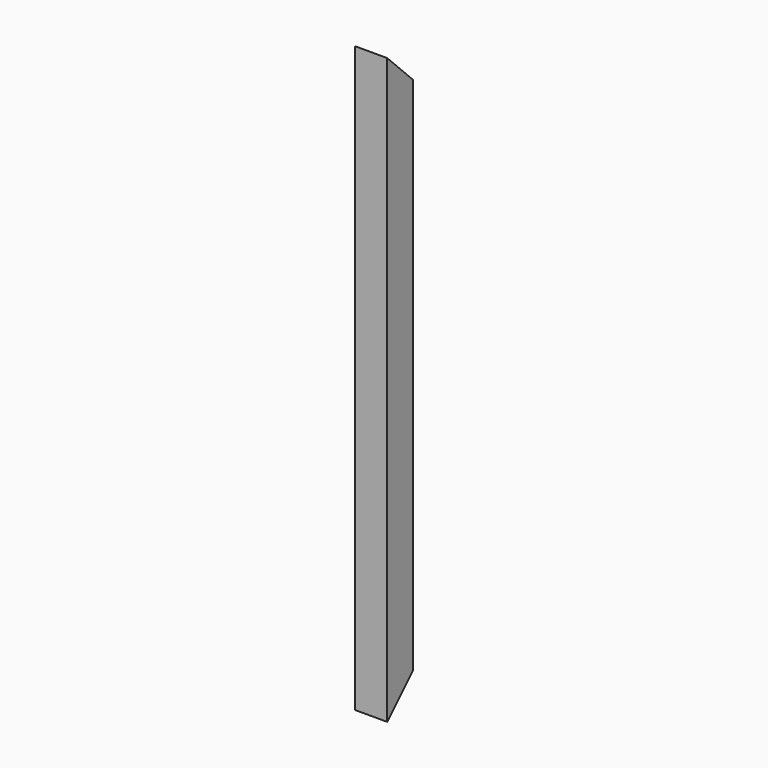
from build123d import *

# Parameters (mm, degrees)
F0_W          = 50
F0_H          = 50
F1_DEPTH      = 900
F3_DEPTH      = 25.001
F3_DEPTH_BACK = 25.001
F5_DEPTH      = 25.001
F5_DEPTH_BACK = 25.001


with BuildPart() as f1:
    # F0 (on Top) → F1 (new body)
    with BuildSketch(Plane.XY):
        Rectangle(F0_W, F0_H)
    extrude(amount=F1_DEPTH)

    # F2 (on Right) → F3 (cut, two sides)
    with BuildSketch(Plane.YZ) as f3_sk:
        Polygon((135.3058686236, 900), (-25, 900), (135.3058686236, 739.6941313764), align=None)
    extrude(amount=-F3_DEPTH, mode=Mode.SUBTRACT)
    extrude(f3_sk.sketch, amount=F3_DEPTH_BACK, mode=Mode.SUBTRACT)

    # F4 (on Right) → F5 (cut, two sides)
    with BuildSketch(Plane.YZ) as f5_sk:
        Polygon((25, 50), (-25, 0), (25, 0), align=None)
    extrude(amount=-F5_DEPTH, mode=Mode.SUBTRACT)
    extrude(f5_sk.sketch, amount=F5_DEPTH_BACK, mode=Mode.SUBTRACT)


solid = f1.part
